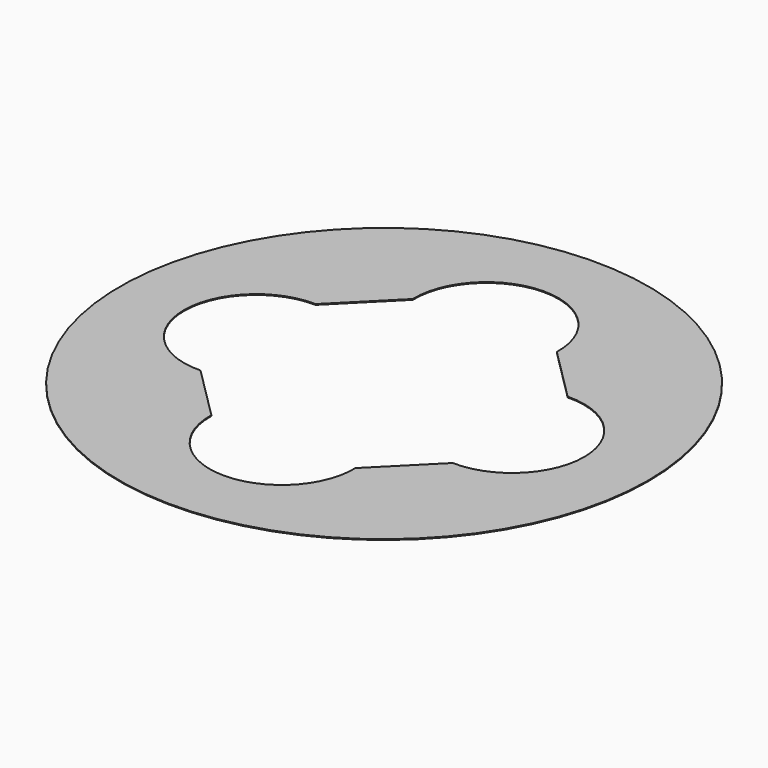
from build123d import *

# Parameters (mm, degrees)
PAD_DEPTH           = 10
CYLINDER_R          = 66
CYLINDER_DEPTH      = 0.2
CUT_ROLL_ANGLE      = -0.040537
CUT_PITCH_ANGLE     = -0.082331
CUT_PLACEMENT_ANGLE = 0.041901


with BuildPart() as pad:
    # Sketch → Pad (new body)
    with BuildSketch(Plane.XY):
        with BuildLine():
            ThreePointArc((31.504301, -17.993173), (50, 0), (31.504301, 17.993173))
            Line((31.504301, 17.993173), (17.993173, 31.504301))
            ThreePointArc((17.993173, 31.504301), (0, 50), (-17.993173, 31.504301))
            Line((-17.993173, 31.504301), (-31.504301, 17.993173))
            ThreePointArc((-31.504301, 17.993173), (-50, 0), (-31.504301, -17.993173))
            Line((-31.504301, -17.993173), (-17.993173, -31.504301))
            ThreePointArc((-17.993173, -31.504301), (0, -50), (17.993173, -31.504301))
            Line((17.993173, -31.504301), (31.504301, -17.993173))
        make_face()
    extrude(amount=PAD_DEPTH)


with BuildPart() as cut:
    # Cylinder → Cylinder (new body)
    with BuildSketch(Plane.XY):
        Circle(CYLINDER_R)
    extrude(amount=CYLINDER_DEPTH)

    # Cut: cut Pad
    add(pad.part, mode=Mode.SUBTRACT)


with BuildPart() as cut_1:
    # Cut roll: moved
    add(cut.part.rotate(Axis((0, 0, 0), (1, 0, 0)), CUT_ROLL_ANGLE))


with BuildPart() as cut_2:
    # Cut pitch: moved
    add(cut_1.part.rotate(Axis((0, 0, 0), (0, 1, 0)), CUT_PITCH_ANGLE))


with BuildPart() as cut_3:
    # Cut placement: moved
    add(cut_2.part.rotate(Axis((0, 0, 0), (0, 0, 1)), CUT_PLACEMENT_ANGLE))


solid = cut_3.part
